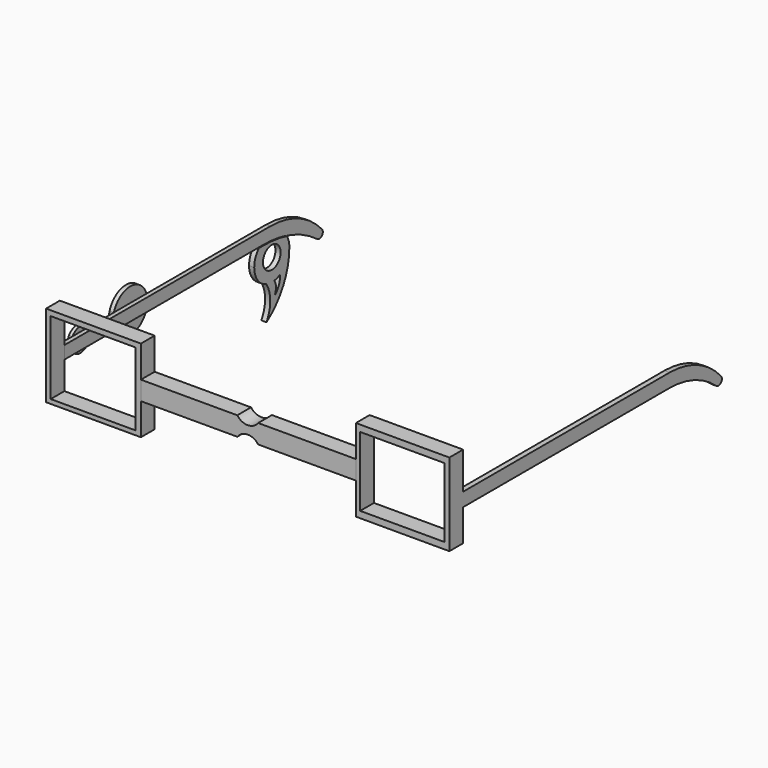
from build123d import *

# Parameters (mm, degrees)
F0_W      = 24.8591314353
F0_H      = 20.5186494302
F1_DEPTH  = 5.08
F0_W_2    = 25.122191595
F0_H_2    = 21.5708865258
F2_DEPTH  = 5.08
F0_W_3    = 63.5
F0_H_3    = 5.5836134831
F3_DEPTH  = 5.08
F5_DEPTH  = 1.27
F7_DEPTH  = 1.524
F9_DEPTH  = 25.4
F10_R     = 3.2639449121
F11_DEPTH = 1.524
F12_DEPTH = 25.4
F14_DEPTH = 1.016
F15_DEPTH = 1.27


with BuildPart() as f1:
    # F0 (on Front) → F1 (new body)
    with BuildSketch(Plane.XZ):
        Polygon((26.385391636, 14.9705700048), (26.385391636, 5.5836134831), (26.385391636, 0), (26.385391636, -9.3869565217), (53.9940872881, -9.3869565217), (53.9940872881, 14.9705700048), align=None)
        with Locations((40.0855276815, 2.7977904487)):
            Rectangle(F0_W, F0_H, mode=Mode.SUBTRACT)
    extrude(amount=F1_DEPTH)

    # F0 (on Front) → F2 (cut)
    with BuildSketch(Plane.XZ):
        with Locations((-51.196154369, 2.6662601158)):
            Rectangle(F0_W_2, F0_H_2)
        with Locations((40.0855276815, 2.7977904487)):
            Rectangle(F0_W, F0_H)
    extrude(amount=F2_DEPTH, mode=Mode.SUBTRACT)

    # F6 (on face) → F7 (join)
    with BuildSketch(Plane.YZ.offset(53.9940872881)):
        with BuildLine():
            Line((76.2000307441, 4.0195993367), (0, 4.0195993367))
            Line((0, 4.0195993367), (0, 0))
            Line((0, 0), (76.2000307441, 0))
            ThreePointArc((76.2000307441, 0), (85.4073462963, -1.6626049581), (93.451687857, -6.440416568))
            ThreePointArc((93.451687857, -6.440416568), (95.175242601, -6.3789570267), (95.2350281051, -4.6553434028))
            ThreePointArc((95.2350281051, -4.6553434028), (86.6593060066, 1.7486216939), (76.2000307441, 4.0195993367))
        make_face()
    extrude(amount=-F7_DEPTH)

    # F10 (on face) → F12 (cut)
    with BuildSketch(Plane(origin=(-65.1145180239, 0, 0), x_dir=(0, -1, 0), z_dir=(-1, 0, 0))):
        with Locations((-76.3458460569, -4.3230298907)):
            Circle(F10_R)
        with BuildLine():
            ThreePointArc((-77.3066952825, -10.7327000518), (-78.4101509232, -10.4667867403), (-79.450295985, -10.0124493208))
            ThreePointArc((-79.450295985, -10.0124493208), (-78.9112272655, -12.6753163205), (-77.3066952825, -14.8677881807))
            ThreePointArc((-77.3066952825, -14.8677881807), (-77.8892778547, -12.8002441162), (-77.3066952825, -10.7327000518))
        make_face()
    extrude(amount=-F12_DEPTH, mode=Mode.SUBTRACT)


with BuildPart() as f1b:
    # F0 (on Front) → F1, piece 2 (new body)
    with BuildSketch(Plane.XZ):
        Polygon((-37.114608364, 0), (-37.114608364, 5.5836134831), (-37.114608364, 14.9705700048), (-65.1145180239, 14.9705700048), (-65.1145180239, -9.3869565217), (-37.114608364, -9.3869565217), align=None)
        with Locations((-51.196154369, 2.6662601158)):
            Rectangle(F0_W_2, F0_H_2, mode=Mode.SUBTRACT)
    extrude(amount=F1_DEPTH)

    # F4 (on face) → F5 (join)
    with BuildSketch(Plane(origin=(-65.1145180239, 0, 0), x_dir=(0, -1, 0), z_dir=(-1, 0, 0))):
        with BuildLine():
            Line((0, 0), (0, 3.7789882266))
            Line((0, 3.7789882266), (-76.2, 3.7789882266))
            ThreePointArc((-76.2, 3.7789882266), (-86.6030038133, 1.5509003545), (-95.1809047422, -4.7424675481))
            ThreePointArc((-95.1809047422, -4.7424675481), (-95.1665474178, -6.4461961933), (-93.4699387827, -6.6024542127))
            ThreePointArc((-93.4699387827, -6.6024542127), (-84.1006187102, -1.6940701503), (-73.66, 0))
            Line((-73.66, 0), (0, 0))
        make_face()
    extrude(amount=-F5_DEPTH)

    # F13 (on face) → F14 (join)
    with BuildSketch(Plane(origin=(-65.1145180239, 0, 0), x_dir=(0, -1, 0), z_dir=(-1, 0, 0))):
        with BuildLine():
            ThreePointArc((-10.585440284, 0), (-7.557160221, -1.7438445264), (-4.528880158, 0))
            Line((-4.528880158, 0), (-10.585440284, 0))
        make_face()
        with BuildLine():
            ThreePointArc((-4.528880158, 0), (-4.1761766544, 0.847458933), (-4.0558521379, 1.7574635567))
            ThreePointArc((-4.0558521379, 1.7574635567), (-4.2203495123, 2.8180542352), (-4.698384906, 3.7789882266))
            Line((-4.698384906, 3.7789882266), (-10.4159355361, 3.7789882266))
            ThreePointArc((-10.4159355361, 3.7789882266), (-11.0549514184, 1.9143553435), (-10.585440284, 0))
            Line((-10.585440284, 0), (-4.528880158, 0))
        make_face()
        with BuildLine():
            Line((-10.4159355361, 3.7789882266), (-4.698384906, 3.7789882266))
            ThreePointArc((-4.698384906, 3.7789882266), (-7.557160221, 5.2587716399), (-10.4159355361, 3.7789882266))
        make_face()
    extrude(amount=F14_DEPTH)

    # F13 (on face) → F15 (join)
    with BuildSketch(Plane(origin=(-65.1145180239, 0, 0), x_dir=(0, -1, 0), z_dir=(-1, 0, 0))):
        with BuildLine():
            ThreePointArc((-32.0749622812, 0), (-25.9767286479, -4.5889631228), (-19.8784950147, 0))
            Line((-19.8784950147, 0), (-32.0749622812, 0))
        make_face()
        with BuildLine():
            ThreePointArc((-19.6303019684, 1.7574635567), (-19.7134888719, 2.7816506035), (-19.9608688085, 3.7789882266))
            Line((-19.9608688085, 3.7789882266), (-31.9925884874, 3.7789882266))
            ThreePointArc((-31.9925884874, 3.7789882266), (-32.321648125, 1.8957691183), (-32.0749622812, 0))
            Line((-32.0749622812, 0), (-19.8784950147, 0))
            ThreePointArc((-19.8784950147, 0), (-19.6926565515, 0.8700124396), (-19.6303019684, 1.7574635567))
        make_face()
        with BuildLine():
            Line((-31.9925884874, 3.7789882266), (-19.9608688085, 3.7789882266))
            ThreePointArc((-19.9608688085, 3.7789882266), (-25.9767286479, 8.1038902362), (-31.9925884874, 3.7789882266))
        make_face()
    extrude(amount=F15_DEPTH)


with BuildPart() as f3:
    # F0 (on Front) → F3 (new body)
    with BuildSketch(Plane.XZ):
        with Locations((-5.364608364, 2.7918067415)):
            Rectangle(F0_W_3, F0_H_3)
    extrude(amount=F3_DEPTH)

    # F8 (on face) → F9 (cut)
    with BuildSketch(Plane.XZ.offset(5.08)):
        with BuildLine():
            Line((-2.4771525059, 5.5836134831), (-8.6485305801, 5.5836134831))
            ThreePointArc((-8.6485305801, 5.5836134831), (-5.562841543, 4.0084788406), (-2.4771525059, 5.5836134831))
        make_face()
        with BuildLine():
            ThreePointArc((-2.4771525059, 0), (-5.562841543, 1.5751346425), (-8.6485305801, 0))
            Line((-8.6485305801, 0), (-2.4771525059, 0))
        make_face()
    extrude(amount=-F9_DEPTH, mode=Mode.SUBTRACT)


with BuildPart() as f11:
    # F10 (on face) → F11 (new body)
    with BuildSketch(Plane(origin=(-65.1145180239, 0, 0), x_dir=(0, -1, 0), z_dir=(-1, 0, 0))):
        with BuildLine():
            ThreePointArc((-81.9434158877, -1.0558729005), (-82.602305468, -2.6307478676), (-82.8271347257, -4.3230298907))
            ThreePointArc((-82.8271347257, -4.3230298907), (-81.9193520877, -7.6310705998), (-79.450295985, -10.0124493208))
            ThreePointArc((-79.450295985, -10.0124493208), (-78.4101509232, -10.4667867403), (-77.3066952825, -10.7327000518))
            ThreePointArc((-77.3066952825, -10.7327000518), (-75.8317193013, -10.783894886), (-74.3834020992, -10.5000774476))
            ThreePointArc((-74.3834020992, -10.5000774476), (-71.1148677261, -8.1497737429), (-69.8645573881, -4.3230298907))
            ThreePointArc((-69.8645573881, -4.3230298907), (-70.2917251946, -2.0090023644), (-71.5169211898, 0))
            Line((-71.5169211898, 0), (-73.66, 0))
            ThreePointArc((-73.66, 0), (-77.8352199448, -0.2650318515), (-81.9434158877, -1.0558729005))
        make_face()
        with Locations((-76.3458460569, -4.3230298907)):
            Circle(F10_R, mode=Mode.SUBTRACT)
        with BuildLine():
            ThreePointArc((-79.450295985, -10.0124493208), (-81.9193520877, -7.6310705998), (-82.8271347257, -4.3230298907))
            ThreePointArc((-82.8271347257, -4.3230298907), (-80.587849375, -13.4042673338), (-74.3834020992, -20.4034177381))
            ThreePointArc((-74.3834020992, -20.4034177381), (-75.7780304506, -15.4517475929), (-74.3834020992, -10.5000774476))
            ThreePointArc((-74.3834020992, -10.5000774476), (-75.8317193013, -10.783894886), (-77.3066952825, -10.7327000518))
            ThreePointArc((-77.3066952825, -10.7327000518), (-77.8892778547, -12.8002441162), (-77.3066952825, -14.8677881807))
            ThreePointArc((-77.3066952825, -14.8677881807), (-78.9112272655, -12.6753163205), (-79.450295985, -10.0124493208))
        make_face()
    extrude(amount=-F11_DEPTH)


solid = Compound([f1.part, f1b.part, f3.part, f11.part])
